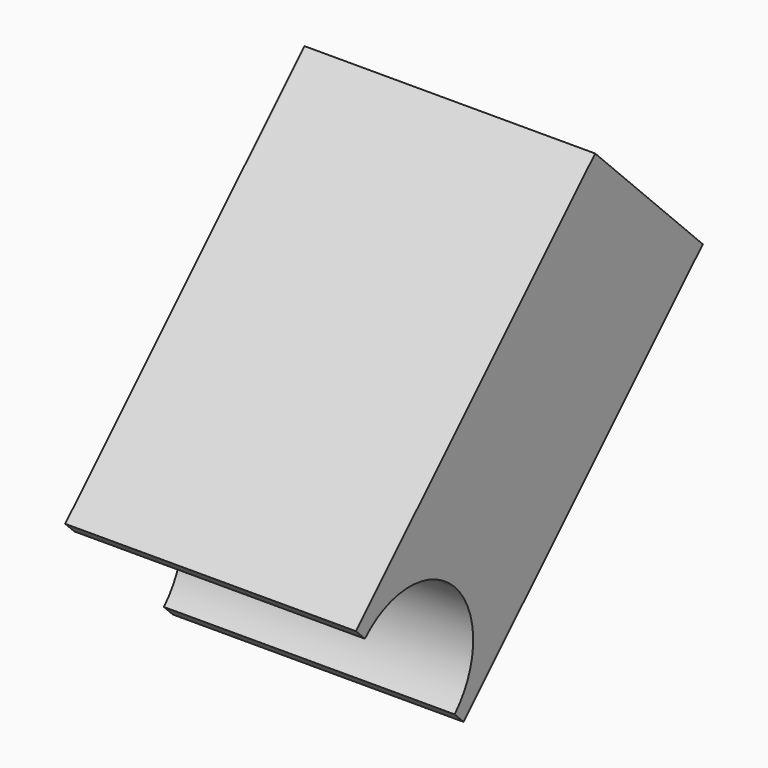
from build123d import *

# Parameters (mm, degrees)
F1_DEPTH = 1.74625
F2_ANGLE = -45


with BuildPart() as f1:
    # F0 (on Right) → F1 (new body)
    with BuildSketch(Plane.YZ):
        with BuildLine():
            Line((0, 0.09525), (0, 0))
            Line((0, 0), (2.54, 0))
            Line((2.54, 0), (2.54, 1.143))
            Line((2.54, 1.143), (0, 1.143))
            Line((0, 1.143), (0, 1.04775))
            ThreePointArc((0, 1.04775), (0.3367596045, 0.9082596045), (0.47625, 0.5715))
            ThreePointArc((0.47625, 0.5715), (0.3367596045, 0.2347403955), (0, 0.09525))
        make_face()
    extrude(amount=F1_DEPTH)


with BuildPart() as f1_1:
    # F2: moved
    add(f1.part.rotate(Axis((0.873125, 0, 0), (-1, 0, 0)), F2_ANGLE))


solid = f1_1.part
